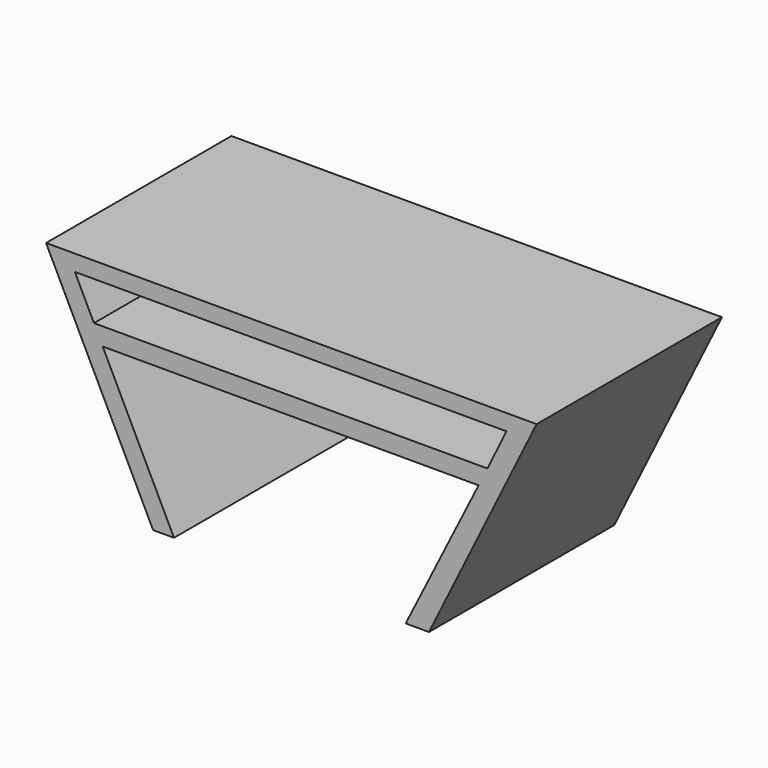
from build123d import *

# Parameters (mm, degrees)
F0_W     = 180
F0_H     = 80
F1_DEPTH = 85
F3_DEPTH = 85.001
F5_DEPTH = 85.001


with BuildPart() as f1:
    # F0 (on Front) → F1 (new body)
    with BuildSketch(Plane.XZ):
        with Locations((4.7223418951, 11.9884983084)):
            Rectangle(F0_W, F0_H)
    extrude(amount=F1_DEPTH)

    # F2 (on face) → F3 (cut, through all)
    with BuildSketch(Plane.XZ.offset(85)):
        Polygon((-46.0070036352, -28.0115016916), (-85.2776581049, 51.9884983084), (-85.2776581049, -28.0115016916), align=None)
        Polygon((94.7223418951, -28.0115016916), (94.7223418951, 51.9884983084), (55.2294403315, -28.0115016916), align=None)
    extrude(amount=-F3_DEPTH, mode=Mode.SUBTRACT)

    # F4 (on face) → F5 (cut, through all)
    with BuildSketch(Plane.XZ.offset(85)):
        Polygon((-74.7092828557, 46.072713804), (-67.7043439121, 31.8026405634), (76.6995772719, 31.8026405634), (83.6467270564, 46.072713804), align=None)
        Polygon((73.4329734772, 25.2924152588), (-64.5085838063, 25.2924152588), (-38.3425875008, -28.0115016916), (46.6869287193, -28.0115016916), align=None)
    extrude(amount=-F5_DEPTH, mode=Mode.SUBTRACT)


solid = f1.part
